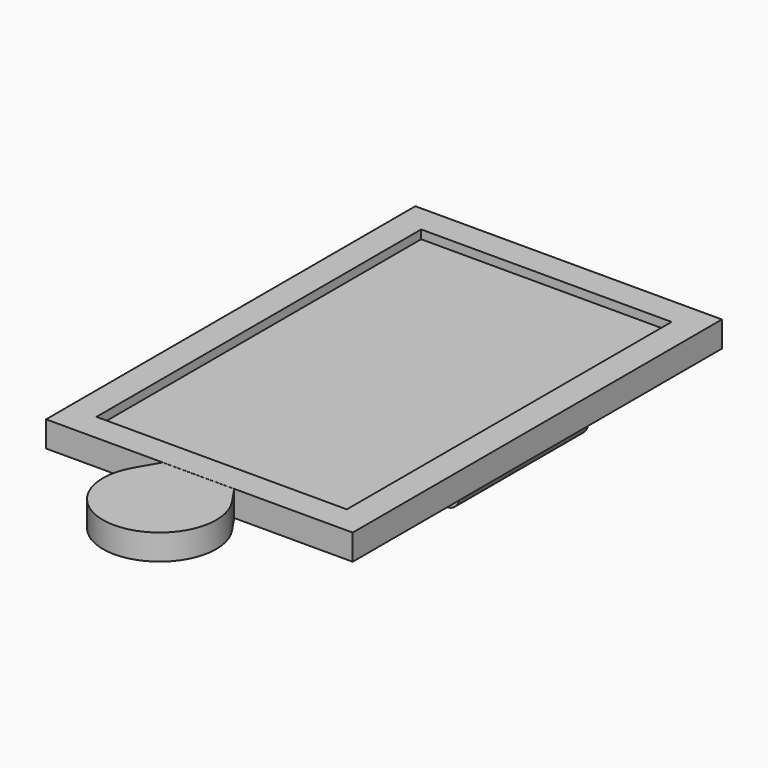
from build123d import *

# Parameters (mm, degrees)
SKETCH_W        = 62.81
SKETCH_H        = 94.56
PAD_DEPTH       = 5.27
SKETCH001_W     = 51.3
SKETCH001_H     = 83.16
POCKET_DEPTH    = 3.27
SKETCH002_W     = 56.5
SKETCH002_H     = 90.5
POCKET001_DEPTH = 1.5
PAD001_DEPTH    = 90.5
PAD002_DEPTH    = 90.5
PAD003_DEPTH    = 28.5
SKETCH006_R     = 1.25
PAD004_DEPTH    = 16.5
PAD005_DEPTH    = 5.25


with BuildPart() as part:
    # Sketch → Pad (new body)
    with BuildSketch(Plane.XY):
        Rectangle(SKETCH_W, SKETCH_H)
    extrude(amount=PAD_DEPTH)

    # Sketch001 → Pocket (cut)
    with BuildSketch(Plane.XY.offset(5.27)):
        Rectangle(SKETCH001_W, SKETCH001_H)
    extrude(amount=-POCKET_DEPTH, mode=Mode.SUBTRACT)

    # Sketch002 → Pocket001 (cut)
    with BuildSketch(Plane.XY.offset(3.5)):
        with Locations((0, 2.03)):
            Rectangle(SKETCH002_W, SKETCH002_H)
    extrude(amount=-POCKET001_DEPTH, mode=Mode.SUBTRACT)

    # Sketch003 → Pad001 (join)
    with BuildSketch(Plane.XZ.offset(43.22)):
        Polygon((-25.65, 3.5), (-28.25, 2.2), (-28.25, 3.5), align=None)
    extrude(amount=-PAD001_DEPTH)

    # Sketch004 → Pad002 (join)
    with BuildSketch(Plane.XZ.offset(43.22)):
        Polygon((25.65, 3.5), (28.25, 3.5), (28.25, 2.2), align=None)
    extrude(amount=-PAD002_DEPTH)

    # Sketch005 → Pad003 (join, symmetric)
    with BuildSketch(Plane.YZ):
        Polygon((-41.58, 3.5), (-43.22, 2.293188), (-43.22, 3.5), align=None)
    extrude(amount=PAD003_DEPTH, both=True)

    # Sketch006 → Pad004 (join, symmetric)
    with BuildSketch(Plane.XZ):
        with BuildLine():
            Line((-28.615358, 0.722295), (-28.615358, -1.865583))
            ThreePointArc((-28.615358, -1.865583), (-26.115358, -4.365583), (-23.615358, -1.865583))
            Line((-23.615358, 0.722295), (-23.615358, -1.865583))
            Line((-28.615358, 0.722295), (-23.615358, 0.722295))
        make_face()
        with Locations((-26.115358, -1.865583)):
            Circle(SKETCH006_R, mode=Mode.SUBTRACT)
    pad004 = extrude(amount=PAD004_DEPTH, both=True)

    # Sketch007 → Pad005 (join)
    with BuildSketch(Plane.XY):
        with BuildLine():
            ThreePointArc((-10.054045, -51.641873), (0.400338, -69.077796), (9.629085, -50.963278))
            Line((9.629085, -50.963278), (6.442785, -46.244865))
            Line((-6.927812, -46.244865), (6.442785, -46.244865))
            Line((-6.927812, -46.244865), (-10.054045, -51.641873))
        make_face()
    extrude(amount=PAD005_DEPTH)

    # Mirrored: Pad004 across Sketch006 V_Axis
    add(pad004.mirror(Plane(origin=(0, 0, 0), x_dir=(0, -1, 0), z_dir=(1, 0, 0))))


solid = part.part
